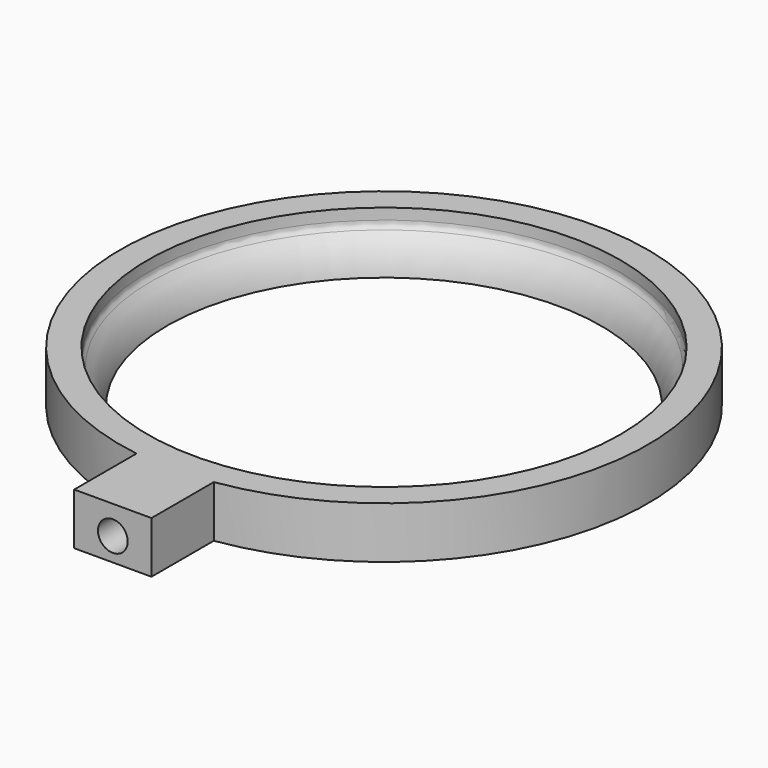
from build123d import *

# Parameters (mm, degrees)
SKETCH002_W = 7
SKETCH002_H = 14.789333
PAD_DEPTH   = 9.367216


with BuildPart() as part:
    # Sketch → Revolution (revolve)
    with BuildSketch(Plane.XZ):
        with BuildLine():
            ThreePointArc((42.295694, 49.859657), (40.314757, 47.066424), (39.35, 43.780773))
            Line((47.827152, 43.780773), (39.35, 43.780773))
            Line((47.827152, 53.147989), (47.827152, 43.780773))
            Line((42.827152, 53.147989), (47.827152, 53.147989))
            Line((42.827152, 51.147989), (42.827152, 53.147989))
            ThreePointArc((42.295694, 49.859657), (42.68907, 50.451166), (42.827152, 51.147989))
        make_face()
    revolve(axis=Axis((0, 0, 0), (0, 0, 1)))

    # Sketch002 (on DatumPlane) → Pad (new body)
    with BuildSketch(Plane(origin=(0, 0, 43.780773), x_dir=(-1, 0, 0), z_dir=(0, 0, 1))):
        with Locations((-3.5, 54.037153)):
            Rectangle(SKETCH002_W, SKETCH002_H)
    pad = extrude(amount=PAD_DEPTH)

    # Mirrored: Pad across Sketch002 V_Axis
    add(pad.mirror(Plane(origin=(0, 0, 43.780773), x_dir=(0, 0, 1), z_dir=(-1, 0, 0))))

    # Sketch003 → Groove (revolve, cut)
    with BuildSketch(Plane(origin=(0, -43, 48), x_dir=(0, 1, 0), z_dir=(1, 0, 0))):
        Polygon((0, 5), (-2, 2.693579), (-42.222773, 2.693579), (-42.408872, 0), (36.192486, 0), (36.192486, 5), align=None)
    revolve(axis=Axis((0, -43, 48), (0, 1, 0)), mode=Mode.SUBTRACT)


solid = part.part
